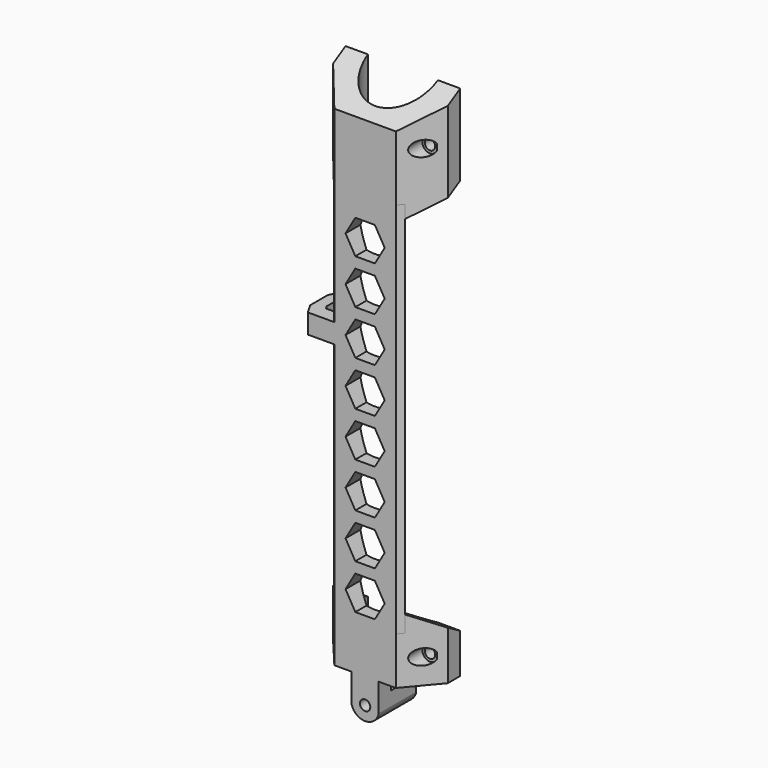
from build123d import *

# Parameters (mm, degrees)
SKETCH216_R         = 1.85
EXTRUDE136028_DEPTH = 20
EXTRUDE136035_DEPTH = 50
SKETCH219_R         = 2.75
EXTRUDE136031_DEPTH = 9
SKETCH218_R         = 1.85
EXTRUDE136030_DEPTH = 20
EXTRUDE136029_DEPTH = 38
EXTRUDE136036_DEPTH = 50
SKETCH222_R         = 2.75
EXTRUDE136034_DEPTH = 9
SKETCH221_R         = 1.85
EXTRUDE136033_DEPTH = 20
EXTRUDE136032_DEPTH = 24
EXTRUDE136037_DEPTH = 14
SKETCH226_W         = 9.75
SKETCH226_H         = 16.75
EXTRUDE136038_DEPTH = 9
EXTRUDE136039_DEPTH = 7
EXTRUDE136027_DEPTH = 135


with BuildPart() as extrude136028:
    # Sketch216 → Extrude136028 (new body)
    with BuildSketch(Plane.XZ):
        with Locations((0, -9)):
            Circle(SKETCH216_R)
        Polygon((3.5, 19.187822), (7, 25.25), (3.5, 31.312178), (-3.5, 31.312178), (-7, 25.25), (-3.5, 19.187822), align=None)
        Polygon((3.5, 35.187822), (7, 41.25), (3.5, 47.312178), (-3.5, 47.312178), (-7, 41.25), (-3.5, 35.187822), align=None)
        Polygon((3.5, 51.187822), (7, 57.25), (3.5, 63.312178), (-3.5, 63.312178), (-7, 57.25), (-3.5, 51.187822), align=None)
        Polygon((3.5, 67.187822), (7, 73.25), (3.5, 79.312178), (-3.5, 79.312178), (-7, 73.25), (-3.5, 67.187822), align=None)
        Polygon((3.5, 83.187822), (7, 89.25), (3.5, 95.312178), (-3.5, 95.312178), (-7, 89.25), (-3.5, 83.187822), align=None)
        Polygon((3.5, 99.187822), (7, 105.25), (3.5, 111.312178), (-3.5, 111.312178), (-7, 105.25), (-3.5, 99.187822), align=None)
        Polygon((3.5, 115.187822), (7, 121.25), (3.5, 127.312178), (-3.5, 127.312178), (-7, 121.25), (-3.5, 115.187822), align=None)
        Polygon((3.5, 131.187822), (7, 137.25), (3.5, 143.312178), (-3.5, 143.312178), (-7, 137.25), (-3.5, 131.187822), align=None)
        with BuildLine():
            Line((5, -8.999981), (5, -15.999981))
            Line((5, -15.999981), (-5, -15.999981))
            Line((-5, -15.999981), (-5, -8.999981))
            ThreePointArc((-5, -8.999981), (0, -14), (5, -8.999981))
        make_face()
    extrude(amount=-EXTRUDE136028_DEPTH)


with BuildPart() as extrude136035:
    # Sketch223 → Extrude136035 (new body)
    with BuildSketch(Plane.YZ):
        Polygon((0, -9.814955), (17, 0), (17, -9.814955), align=None)
        Polygon((17, 29), (0, 19.185045), (0, 29), align=None)
    extrude(amount=EXTRUDE136035_DEPTH)


with BuildPart() as extrude136035_1:
    # Extrude136035 placement: moved
    add(extrude136035.part.moved(Location((-25, 0, 0))))


with BuildPart() as extrude136031:
    # Sketch219 → Extrude136031 (new body)
    with BuildSketch(Plane.XZ):
        with Locations((-16, 0)):
            Circle(SKETCH219_R)
        with Locations((16, 0)):
            Circle(SKETCH219_R)
    extrude(amount=-EXTRUDE136031_DEPTH)


with BuildPart() as fusion034004041026:
    # Sketch218 → Extrude136030 (new body)
    with BuildSketch(Plane.XZ):
        with Locations((-16, 0)):
            Circle(SKETCH218_R)
        with Locations((16, 0)):
            Circle(SKETCH218_R)
    extrude(amount=-EXTRUDE136030_DEPTH)

    # Fusion034004041024: union Extrude136031
    add(extrude136031.part)


with BuildPart() as fusion034004041026_1:
    # Fusion034004041024 placement: moved
    add(fusion034004041026.part.moved(Location((0, 0, 13))))

    # Fusion034004041026: union Extrude136035
    add(extrude136035_1.part)


with BuildPart() as cut009010006006006005003:
    # Sketch217 → Extrude136029 (new body)
    with BuildSketch(Plane.XY):
        with BuildLine():
            Line((-11, 0), (11, 0))
            Line((20.5, 11.321659), (11, 0))
            Line((20.5, 11.321659), (20.5, 16.890918))
            Line((20.5, 16.890918), (12.499524, 16.890918))
            ThreePointArc((-12.499524, 16.890918), (0, 4.5), (12.499524, 16.890918))
            Line((-20.5, 16.890918), (-12.499524, 16.890918))
            Line((-20.5, 11.321659), (-20.5, 16.890918))
            Line((-20.5, 11.321659), (-11, 0))
        make_face()
    extrude(amount=EXTRUDE136029_DEPTH)


with BuildPart() as cut009010006006006005003_1:
    # Extrude136029 placement: moved
    add(cut009010006006006005003.part.moved(Location((0, 0, -9))))

    # Cut009010006006006005003: cut Fusion034004041026
    add(fusion034004041026_1.part, mode=Mode.SUBTRACT)


with BuildPart() as cut009010006006006005003_2:
    # Cut009010006006006005003 placement: moved
    add(cut009010006006006005003_1.part.moved(Location((0, 0, 156))))


with BuildPart() as extrude136036:
    # Sketch224 → Extrude136036 (new body)
    with BuildSketch(Plane.YZ):
        Polygon((0, 24), (17, 24), (17, 14.185045), align=None)
    extrude(amount=EXTRUDE136036_DEPTH)


with BuildPart() as extrude136036_1:
    # Extrude136036 placement: moved
    add(extrude136036.part.moved(Location((-25, 0, 0))))


with BuildPart() as extrude136034:
    # Sketch222 → Extrude136034 (new body)
    with BuildSketch(Plane.XZ):
        with Locations((-16, 0)):
            Circle(SKETCH222_R)
        with Locations((16, 0)):
            Circle(SKETCH222_R)
    extrude(amount=-EXTRUDE136034_DEPTH)


with BuildPart() as fusion034004041025:
    # Sketch221 → Extrude136033 (new body)
    with BuildSketch(Plane.XZ):
        with Locations((-16, 0)):
            Circle(SKETCH221_R)
        with Locations((16, 0)):
            Circle(SKETCH221_R)
    extrude(amount=-EXTRUDE136033_DEPTH)

    # Fusion034004041025: union Extrude136034
    add(extrude136034.part)


with BuildPart() as fusion034004041025_1:
    # Fusion034004041025 placement: moved
    add(fusion034004041025.part.moved(Location((0, 0, 9))))


with BuildPart() as cut009010006006006005004:
    # Sketch220 → Extrude136032 (new body)
    with BuildSketch(Plane.XY):
        with BuildLine():
            Line((-11, 0), (11, 0))
            Line((20.5, 11.321659), (11, 0))
            Line((20.5, 11.321659), (20.5, 16.890918))
            Line((20.5, 16.890918), (12.499524, 16.890918))
            ThreePointArc((-12.499524, 16.890918), (0, 4.5), (12.499524, 16.890918))
            Line((-20.5, 16.890918), (-12.499524, 16.890918))
            Line((-20.5, 11.321659), (-20.5, 16.890918))
            Line((-20.5, 11.321659), (-11, 0))
        make_face()
    extrude(amount=EXTRUDE136032_DEPTH)

    # Cut009010006006006005002: cut Fusion034004041025
    add(fusion034004041025_1.part, mode=Mode.SUBTRACT)

    # Cut009010006006006005004: cut Extrude136036
    add(extrude136036_1.part, mode=Mode.SUBTRACT)


with BuildPart() as extrude136037:
    # Sketch225 → Extrude136037 (new body)
    with BuildSketch(Plane.XY):
        with BuildLine():
            Line((-4.875, 0), (4.875, 0))
            Line((4.875, 5.489814), (4.875, 0))
            ThreePointArc((-4.875, 5.489814), (0, 4.5), (4.875, 5.489814))
            Line((-4.875, 5.489814), (-4.875, 0))
        make_face()
    extrude(amount=-EXTRUDE136037_DEPTH)


with BuildPart() as extrude136038:
    # Sketch226 → Extrude136038 (new body)
    with BuildSketch(Plane.XY):
        with Locations((0, 8.375)):
            Rectangle(SKETCH226_W, SKETCH226_H)
    extrude(amount=-EXTRUDE136038_DEPTH)


with BuildPart() as extrude136038_1:
    # Extrude136038 placement: moved
    add(extrude136038.part.moved(Location((0, 0, -5))))


with BuildPart() as extrude136039:
    # Sketch227 → Extrude136039 (new body)
    with BuildSketch(Plane.XY):
        Polygon((0, 5), (0, 0), (-20.5, 0), (-22.665064, 3.75), (-22.665064, 11.75), (-20.5, 15.5), (-18, 15.5), (-18, 13), (-18.665064, 11.848076), (-18.665064, 6.151924), (-18, 5), align=None)
    extrude(amount=EXTRUDE136039_DEPTH)


with BuildPart() as extrude136039_1:
    # Extrude136039 placement: moved
    add(extrude136039.part.moved(Location((0, 0, 101))))


with BuildPart() as cut009010006006006005005:
    # Sketch215 → Extrude136027 (new body)
    with BuildSketch(Plane.XY):
        with BuildLine():
            Line((-11, 0), (11, 0))
            Line((11, 0), (12.678199, 2))
            Line((12.678199, 2), (7.609518, 7.083083))
            ThreePointArc((-7.609518, 7.083083), (0, 4.5), (7.609518, 7.083083))
            Line((-12.678199, 2), (-7.609518, 7.083083))
            Line((-11, 0), (-12.678199, 2))
        make_face()
    extrude(amount=EXTRUDE136027_DEPTH)


with BuildPart() as cut009010006006006005005_1:
    # Extrude136027 placement: moved
    add(cut009010006006006005005.part.moved(Location((0, 0, 17))))

    # Fusion034004041027: union Cut009010006006006005003, Cut009010006006006005004, Extrude136037, Extrude136038, Extrude136039
    add(cut009010006006006005003_2.part)
    add(cut009010006006006005004.part)
    add(extrude136037.part)
    add(extrude136038_1.part)
    add(extrude136039_1.part)

    # Cut009010006006006005005: cut Extrude136028
    add(extrude136028.part, mode=Mode.SUBTRACT)


solid = cut009010006006006005005_1.part
